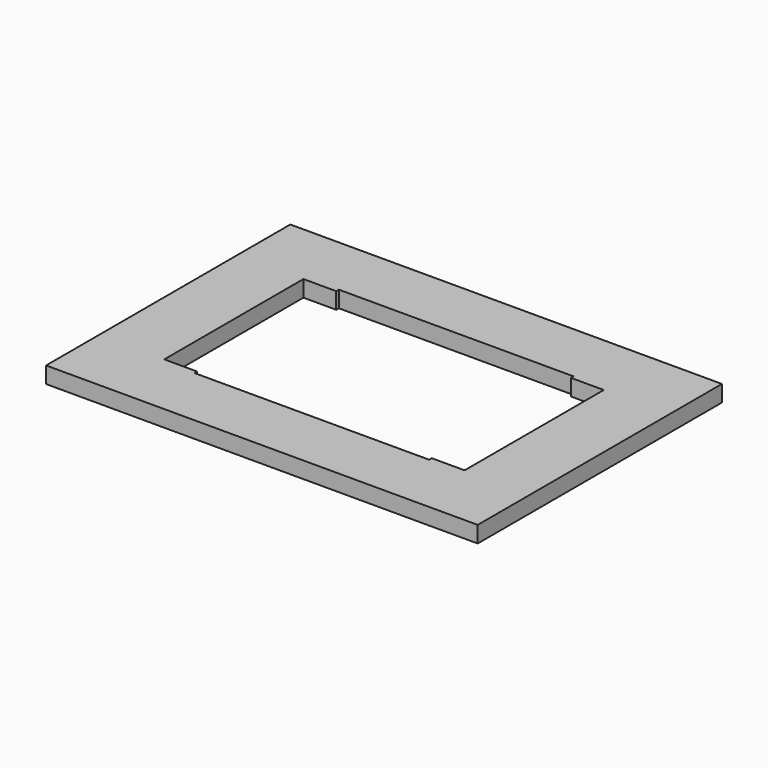
from build123d import *

# Parameters (mm, degrees)
SKETCH_W  = 65.75
SKETCH_H  = 46.5
PAD_DEPTH = 2.5


with BuildPart() as part:
    # Sketch → Pad (new body)
    with BuildSketch(Plane.XY):
        Rectangle(SKETCH_W, SKETCH_H)
        Polygon((-22.875, 13.25), (-17.875, 13.25), (-17.875, 13.75), (17.875, 13.75), (17.875, 13.25), (22.875, 13.25), (22.875, -13.25), (17.875, -13.25), (17.875, -13.75), (-17.875, -13.75), (-17.875, -13.25), (-22.875, -13.25), align=None, mode=Mode.SUBTRACT)
    extrude(amount=PAD_DEPTH)


solid = part.part
